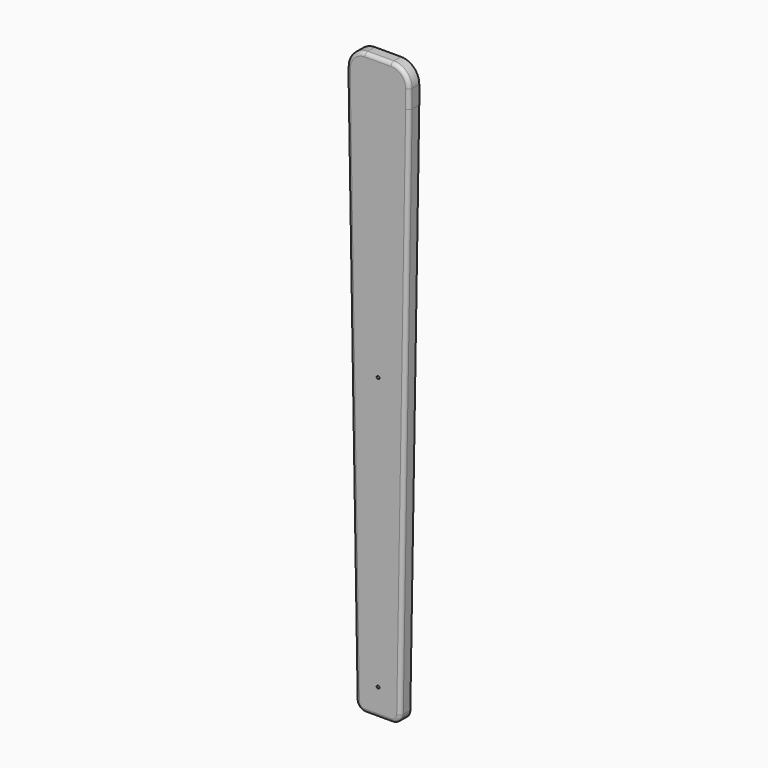
from build123d import *

# Parameters (mm, degrees)
F0_R     = 1.984375
F1_DEPTH = 17.4625
F2_R     = 5.08


with BuildPart() as f1:
    # F0 (on Front) → F1 (new body)
    with BuildSketch(Plane.XZ):
        with BuildLine():
            Line((61.9125, 812.8), (25.4, 812.8))
            ThreePointArc((25.4, 812.8), (7.439488, 805.360512), (0, 787.4))
            Line((0, 787.4), (0, 762))
            Line((0, 762), (12.491861, 12.488363))
            ThreePointArc((12.491861, 12.488363), (16.28498, 3.645228), (25.190097, 0))
            Line((25.190097, 0), (62.122403, 0))
            ThreePointArc((62.122403, 0), (71.02752, 3.645228), (74.820639, 12.488363))
            Line((74.820639, 12.488363), (87.3125, 762))
            Line((87.3125, 762), (87.3125, 787.4))
            ThreePointArc((87.3125, 787.4), (79.873012, 805.360512), (61.9125, 812.8))
        make_face()
        with Locations((43.65625, 38.1)):
            Circle(F0_R, mode=Mode.SUBTRACT)
        with Locations((43.65625, 419.1)):
            Circle(F0_R, mode=Mode.SUBTRACT)
    extrude(amount=F1_DEPTH)

    # F2
    f2_edges = [f1.edges().sort_by_distance(p)[0] for p in [
        (6.24593, -17.4625, 387.244181),
        (7.439488, -17.4625, 805.360512),
    ]]
    fillet(f2_edges, radius=F2_R)


solid = f1.part
